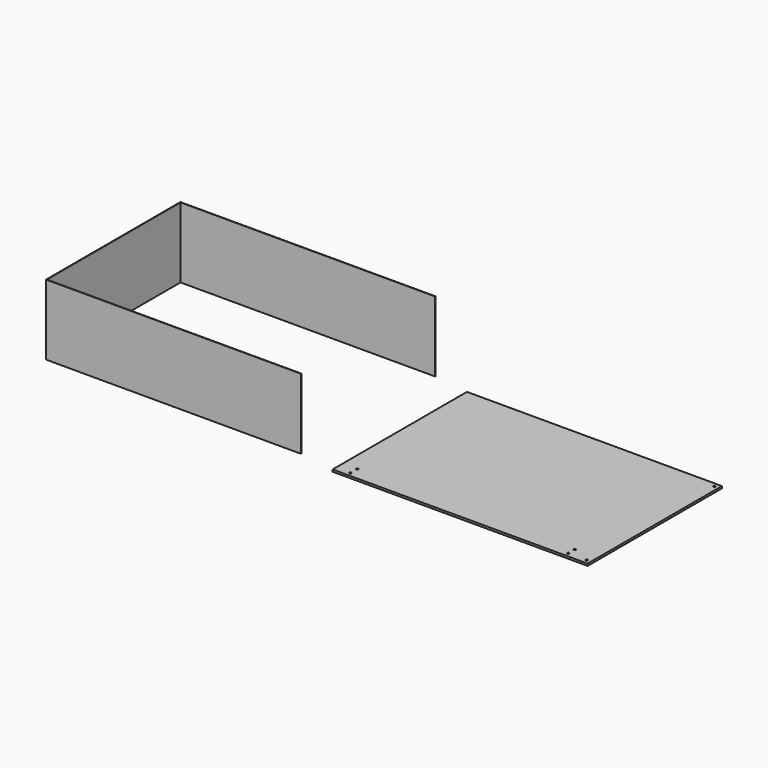
from build123d import *

# Parameters (mm, degrees)
F0_W     = 615
F0_H     = 405
F1_DEPTH = 5
F4_DEPTH = 170
F6_D     = 5
F8_D     = 5
F10_D    = 5
F12_D    = 5
F14_D    = 5
F16_D    = 5


with BuildPart() as f1:
    # F0 (on Top) → F1 (new body)
    with BuildSketch(Plane.XY):
        Rectangle(F0_W, F0_H)
    extrude(amount=F1_DEPTH)

    # F6 (through all)
    with Locations(Plane(origin=(0, 0, 0), x_dir=(1, 0, 0), z_dir=(0, 0, -1))):
        with Locations((-272.5, 192.5)):
            Hole(F6_D / 2)

    # F8 (through all)
    with Locations(Plane(origin=(0, 0, 0), x_dir=(1, 0, 0), z_dir=(0, 0, -1))):
        with Locations((-272.5, 172.5)):
            Hole(F8_D / 2)

    # F10 (through all)
    with Locations(Plane(origin=(0, 0, 0), x_dir=(1, 0, 0), z_dir=(0, 0, -1))):
        with Locations((252.5, 192.5)):
            Hole(F10_D / 2)

    # F12 (through all)
    with Locations(Plane(origin=(0, 0, 0), x_dir=(1, 0, 0), z_dir=(0, 0, -1))):
        with Locations((252.5, 172.5)):
            Hole(F12_D / 2)

    # F14 (through all)
    with Locations(Plane(origin=(0, 0, 0), x_dir=(1, 0, 0), z_dir=(0, 0, -1))):
        with Locations((297.5, -192.5)):
            Hole(F14_D / 2)

    # F16 (through all)
    with Locations(Plane(origin=(0, 0, 0), x_dir=(1, 0, 0), z_dir=(0, 0, -1))):
        with Locations((297.5, 192.5)):
            Hole(F16_D / 2)


with BuildPart() as f4:
    # F3 (on face) → F4 (new body)
    with BuildSketch(Plane.XY.offset(5)):
        Polygon((-1008.5, -190.067157), (-393.5, -190.067157), (-393.5, -189.067157), (-1007.5, -189.067157), (-1007.5, 213.932843), (-393.5, 213.932843), (-393.5, 214.932843), (-1008.5, 214.932843), align=None)
    extrude(amount=F4_DEPTH)


solid = Compound([f1.part, f4.part])
